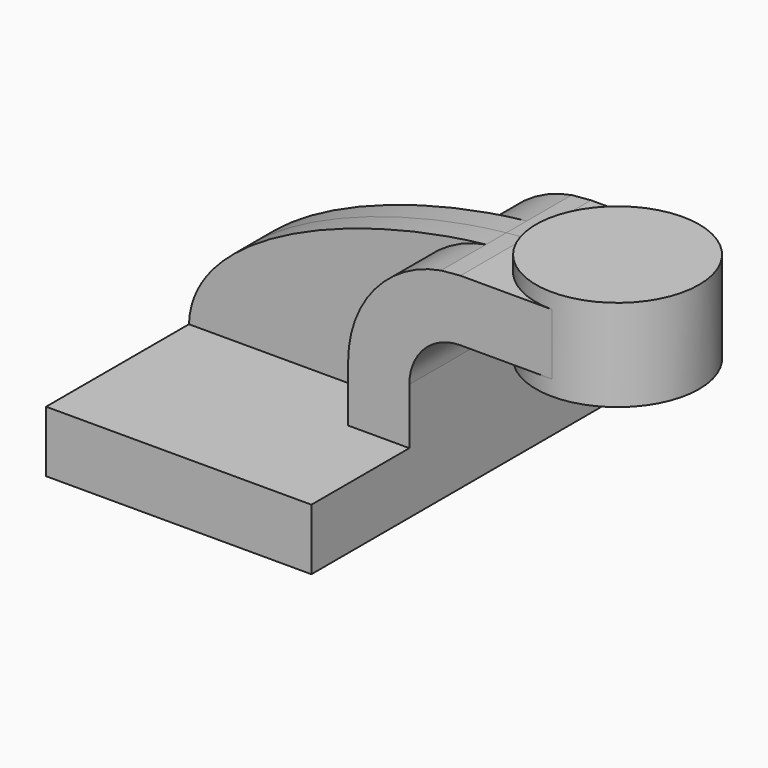
from build123d import *

# Parameters (mm, degrees)
F1_DEPTH = 63.5
F0_W     = 25.4
F0_H     = 19.05
F2_DEPTH = 25.4
F3_DEPTH = 7.9375


with BuildPart() as f1:
    # F0 (on Front) → F1 (new body, symmetric)
    with BuildSketch(Plane.XZ):
        Polygon((22.225, 9.525), (-41.275, 9.525), (-41.275, -9.525), (41.275, -9.525), (41.275, 9.525), align=None)
    extrude(amount=F1_DEPTH, both=True)

    # F0 (on Front) → F2 (join, symmetric)
    with BuildSketch(Plane.XZ):
        with BuildLine():
            Line((22.225, 27.0002), (22.225, 9.525))
            Line((22.225, 9.525), (41.275, 9.525))
            Line((41.275, 9.525), (41.275, 27.0002))
            ThreePointArc((41.275, 27.0002), (45.9246798487, 38.2255201513), (57.15, 42.8752))
            Line((57.15, 42.8752), (60.325, 42.8752))
            Line((60.325, 42.8752), (60.325, 61.9252))
            Line((60.325, 61.9252), (57.15, 61.9252))
            add(Edge.make_bspline(
                [(51.1376503086, 61.4037939429), (53.174688835, 61.6179457119), (55.1815563456, 61.7920560341), (57.15, 61.9252)],
                knots=[106.0980519126, 106.0980519126, 106.0980519126, 106.0980519126, 111.5045361635, 111.5045361635, 111.5045361635, 111.5045361635], degree=3))
            ThreePointArc((51.1376503086, 61.4037939429), (30.4129756894, 49.4698941682), (22.225, 27.0002))
        make_face()
        with Locations((73.025, 52.4002)):
            Rectangle(F0_W, F0_H)
    extrude(amount=F2_DEPTH, both=True)

    # F0 (on Front) → F3 (join, symmetric)
    with BuildSketch(Plane.XZ):
        with BuildLine():
            add(Edge.make_bspline(
                [(-41.275, 9.525), (-40.4321093733, 37.5783033458), (11.1623522611, 57.2012318992), (51.1376503086, 61.4037939429)],
                knots=[0, 0, 0, 0, 106.0980519126, 106.0980519126, 106.0980519126, 106.0980519126], degree=3))
            Line((-41.275, 9.525), (22.225, 9.525))
            Line((22.225, 9.525), (22.225, 27.0002))
            ThreePointArc((22.225, 27.0002), (30.4129756894, 49.4698941682), (51.1376503086, 61.4037939429))
        make_face()
    extrude(amount=F3_DEPTH, both=True)

    # F0 (on Front) → F4 (revolve)
    with BuildSketch(Plane.XZ):
        Polygon((85.725, 66.675), (85.725, 61.9252), (85.725, 42.8752), (85.725, 38.1), (111.125, 38.1), (111.125, 66.675), align=None)
    revolve(axis=Axis((85.725, 0, 54.7751), (0, 0, 1)))


solid = f1.part
